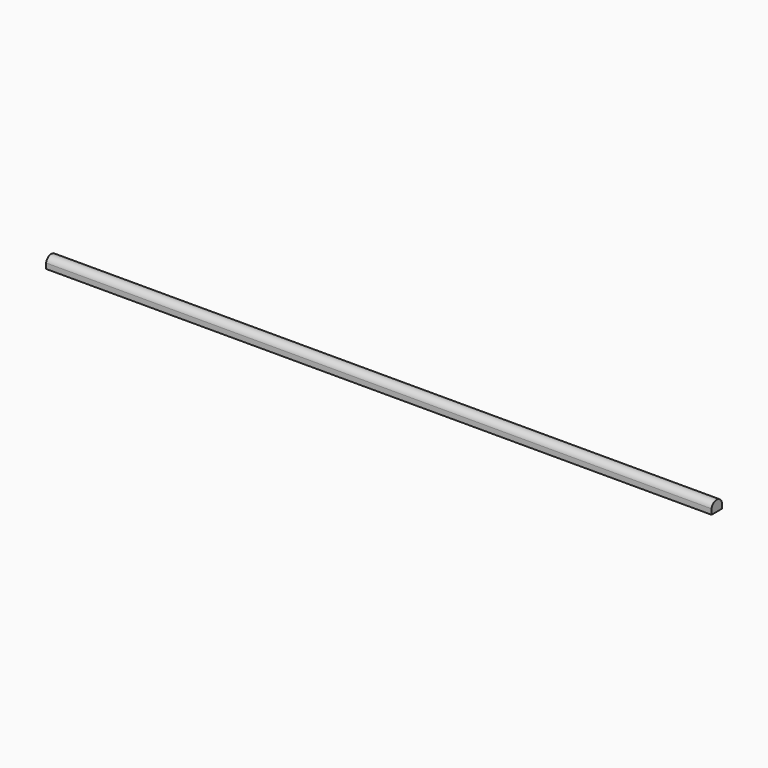
from build123d import *

# Parameters (mm, degrees)
F0_W     = 170
F0_H     = 70
F1_DEPTH = 8710


with BuildPart() as f1:
    # F0 (on Right) → F1 (new body)
    with BuildSketch(Plane.YZ):
        with Locations((0, -35)):
            Rectangle(F0_W, F0_H)
        with BuildLine():
            ThreePointArc((85, 0), (0, 70), (-85, 0))
            Line((-85, 0), (85, 0))
        make_face()
    extrude(amount=F1_DEPTH)


solid = f1.part
